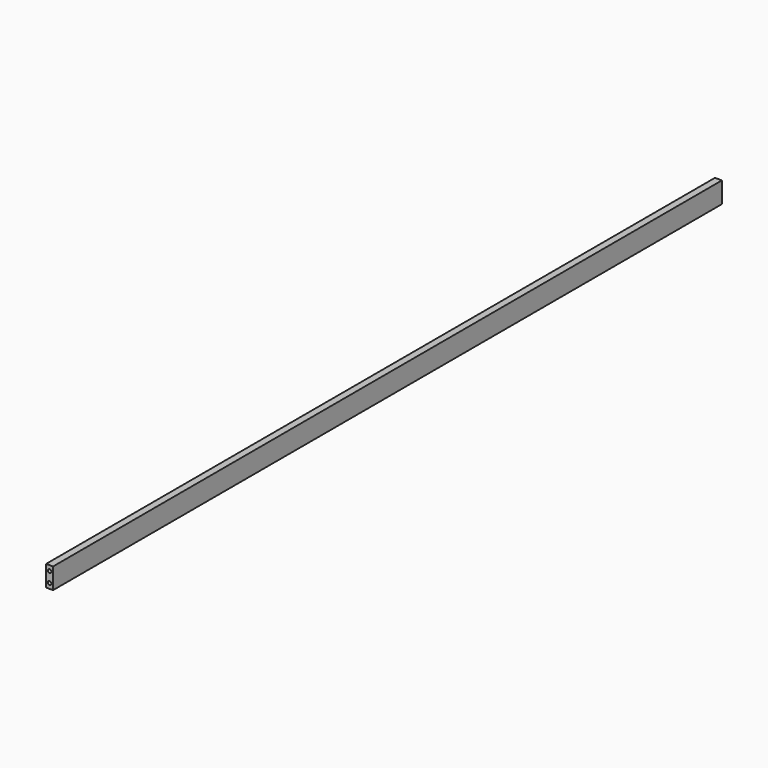
from build123d import *

# Parameters (mm, degrees)
F0_W     = 50.8
F0_H     = 152.4
F0_R     = 12.7
F1_DEPTH = 6096
F2_DEPTH = 6070.6
F3_DEPTH = 25.4


with BuildPart() as f1:
    # F0 (on Front) → F1 (new body)
    with BuildSketch(Plane.XZ):
        with Locations((-33.584445, 25.731898)):
            Rectangle(F0_W, F0_H)
        with Locations((-33.584445, -12.368102)):
            Circle(F0_R, mode=Mode.SUBTRACT)
        with Locations((-33.584445, 63.831898)):
            Circle(F0_R, mode=Mode.SUBTRACT)
    extrude(amount=F1_DEPTH)

    # F0 (on Front) → F2 (join)
    with BuildSketch(Plane.XZ):
        with Locations((-33.584445, 63.831898)):
            Circle(F0_R)
        with Locations((-33.584445, -12.368102)):
            Circle(F0_R)
    extrude(amount=F2_DEPTH)

    # F0 (on Front) → F3 (cut)
    with BuildSketch(Plane.XZ):
        with Locations((-33.584445, 63.831898)):
            Circle(F0_R)
        with Locations((-33.584445, -12.368102)):
            Circle(F0_R)
    extrude(amount=F3_DEPTH, mode=Mode.SUBTRACT)


solid = f1.part
